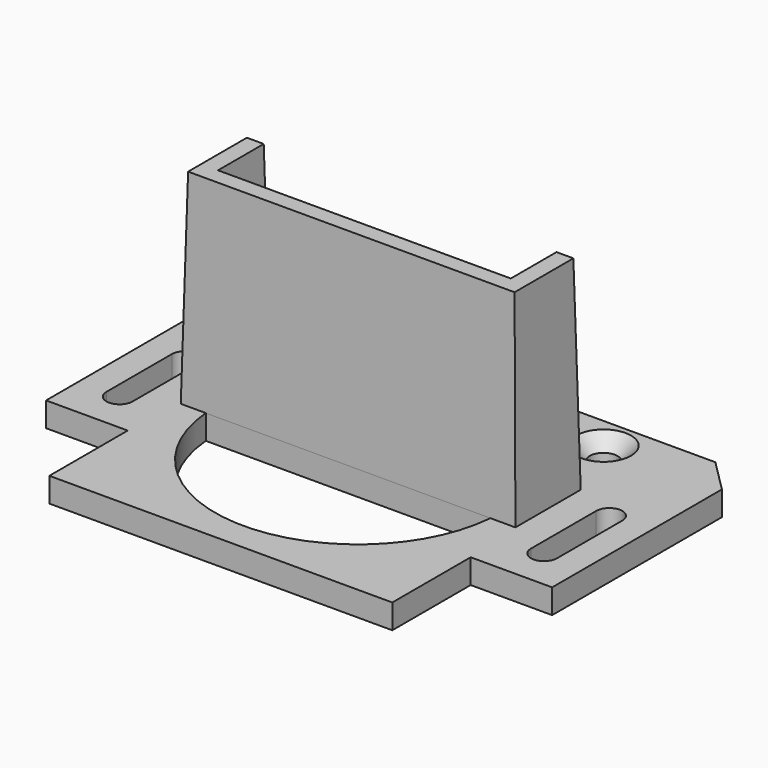
from build123d import *

# Parameters (mm, degrees)
F1_DEPTH       = 3
F2_D           = 3.4
F2_CSINK_D     = 6.72
F2_CSINK_ANGLE = 90
F3_SIZE        = 4


with BuildPart() as f1:
    # F0 (on Top) → F1 (new body)
    with BuildSketch(Plane.XY):
        Polygon((31, 21), (-31, 21), (-31, -9), (-21, -9), (-21, -21), (21.0163556039, -21), (21.0163556039, -9), (31, -9), align=None)
        with BuildLine():
            ThreePointArc((17.4355957742, -1.5), (0, -17.5), (-17.4355957742, -1.5))
            Line((-17.4355957742, -1.5), (17.4355957742, -1.5))
        make_face(mode=Mode.SUBTRACT)
        with BuildLine():
            ThreePointArc((-24.4, -4), (-26, -5.6), (-27.6, -4))
            Line((-27.6, -4), (-27.6, 6))
            ThreePointArc((-27.6, 6), (-26, 7.6), (-24.4, 6))
            Line((-24.4, 6), (-24.4, -4))
        make_face(mode=Mode.SUBTRACT)
        with BuildLine():
            Line((17.4355957742, 1.5), (-17.4355957742, 1.5))
            ThreePointArc((-17.4355957742, 1.5), (0, 17.5), (17.4355957742, 1.5))
        make_face(mode=Mode.SUBTRACT)
        with BuildLine():
            ThreePointArc((27.6, -4), (26, -5.6), (24.4, -4))
            Line((24.4, -4), (24.4, 6))
            ThreePointArc((24.4, 6), (26, 7.6), (27.6, 6))
            Line((27.6, 6), (27.6, -4))
        make_face(mode=Mode.SUBTRACT)
    extrude(amount=-F1_DEPTH)

    # F2 (through all)
    with Locations(Plane.XY):
        with Locations((-16.5, 17), (16.5, 17)):
            CounterSinkHole(F2_D / 2, F2_CSINK_D / 2, counter_sink_angle=F2_CSINK_ANGLE)

    # F3
    f3_edges = [f1.edges().sort_by_distance(p)[0] for p in [
        (31, 21, -1.5),
        (-31, 21, -1.5),
    ]]
    chamfer(f3_edges, length=F3_SIZE)

    # F6 (on offset) → F7 section 0
    with BuildSketch(Plane.XY.offset(25)):
        Polygon((-17.9355957742, 1), (-17.9355957742, 8), (-20, 8), (-20, -1), (-17.4355957742, -1), (17.4355957742, -1), (20, -1), (20, 8), (17.9355957742, 8), (17.9355957742, 1), align=None)
    # F4 (on face) → F7 section 1
    with BuildSketch(Plane.XY):
        Polygon((17.4355957742, 1.5), (-17.4355957742, 1.5), (-17.4355957742, 8.5), (-20.5, 8.5), (-20.5, -1.5), (-17.4355957742, -1.5), (17.4355957742, -1.5), (20.5, -1.5), (20.5, 8.5), (17.4355957742, 8.5), align=None)
    loft()


solid = f1.part
